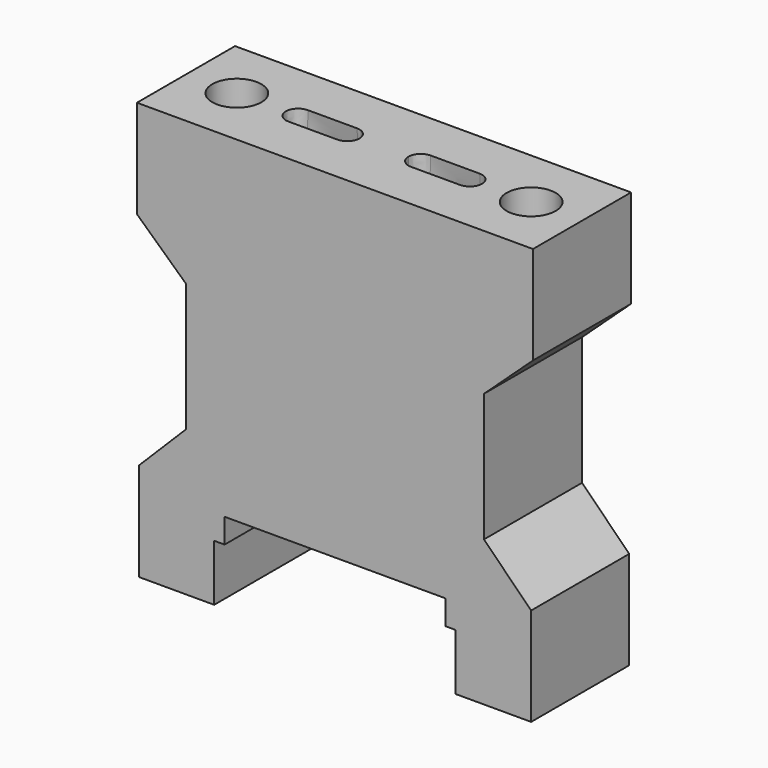
from build123d import *

# Parameters (mm, degrees)
SKETCH060_R     = 2.7
PAD029_DEPTH    = 10
SKETCH057_R     = 2.6
POCKET022_DEPTH = 18
SKETCH058_R     = 3
POCKET023_DEPTH = 10
SKETCH061_R     = 2
POCKET024_DEPTH = 8


with BuildPart() as loft002:
    # Sketch060 → Loft002 section 0
    with BuildSketch(Plane.XY.offset(28)):
        with Locations((-5, 0)):
            Circle(SKETCH060_R)
    # Sketch059 → Loft002 section 1
    with BuildSketch(Plane.XY.offset(38)):
        with BuildLine():
            ThreePointArc((-7, 1), (-8, 0), (-7, -1))
            Line((-7, -1), (-3, -1))
            ThreePointArc((-3, -1), (-2, 0), (-3, 1))
            Line((-3, 1), (-7, 1))
        make_face()
    loft()


with BuildPart() as part_mirroring002:
    # Part__Mirroring002: instance of Loft002
    add(loft002.part.mirror(Plane(origin=(0, 0, 0), x_dir=(0, -1, 0), z_dir=(1, 0, 0))))


with BuildPart() as fusion002:
    # Fusion002 base: copy of Loft002
    add(loft002.part)

    # Fusion002: union Part__Mirroring002
    add(part_mirroring002.part)


with BuildPart() as sensor_holder_sun:
    # Sketch056 → Pad029 (new body)
    with BuildSketch(Plane.XZ):
        Polygon((-16, 4), (-9.85, 4), (-9.85, 7), (-9.85, 8.6), (-9, 8.6), (-9, 10.6), (9, 10.6), (9, 8.6), (9.85, 8.6), (9.85, 7), (9.85, 4), (16, 4), (16, 12), (12.15, 15.85), (12.15, 26.306086), (16.15, 30), (16.15, 38), (-16.15, 38), (-16.15, 30), (-12.15, 26.306086), (-12.15, 15.85), (-16, 12), align=None)
    extrude(amount=PAD029_DEPTH)

    # Sketch057 (on Face7 of Pad029) → Pocket022 (cut)
    with BuildSketch(Plane(origin=(0, 0, 10.6), x_dir=(1, 0, 0), z_dir=(0, 0, -1))):
        with Locations((-5, 5)):
            Circle(SKETCH057_R)
        with Locations((5, 5)):
            Circle(SKETCH057_R)
    extrude(amount=-POCKET022_DEPTH, mode=Mode.SUBTRACT)

    # Sketch058 (on Face11 of Pocket022) → Pocket023 (cut)
    with BuildSketch(Plane(origin=(0, 0, 10.6), x_dir=(1, 0, 0), z_dir=(0, 0, -1))):
        with Locations((-5, 5)):
            Circle(SKETCH058_R)
        with Locations((5, 5)):
            Circle(SKETCH058_R)
    extrude(amount=-POCKET023_DEPTH, mode=Mode.SUBTRACT)

    # Sketch061 (on Face22 of Pocket023) → Pocket024 (cut)
    with BuildSketch(Plane(origin=(0, 0, 38), x_dir=(-1, 0, 0), z_dir=(0, 0, 1))):
        with Locations((-12, 5)):
            Circle(SKETCH061_R)
        with Locations((12, 5)):
            Circle(SKETCH061_R)
    extrude(amount=-POCKET024_DEPTH, mode=Mode.SUBTRACT)


with BuildPart() as sensor_holder_sun_1:
    # Body023 placement: moved
    add(sensor_holder_sun.part.moved(Location((0, 5, 0))))

    # Cut001: cut Fusion002
    add(fusion002.part, mode=Mode.SUBTRACT)


with BuildPart() as sensor_holder_sun_2:
    # Cut001 placement: moved
    add(sensor_holder_sun_1.part.moved(Location((0, -208.33, 0))))


solid = sensor_holder_sun_2.part
